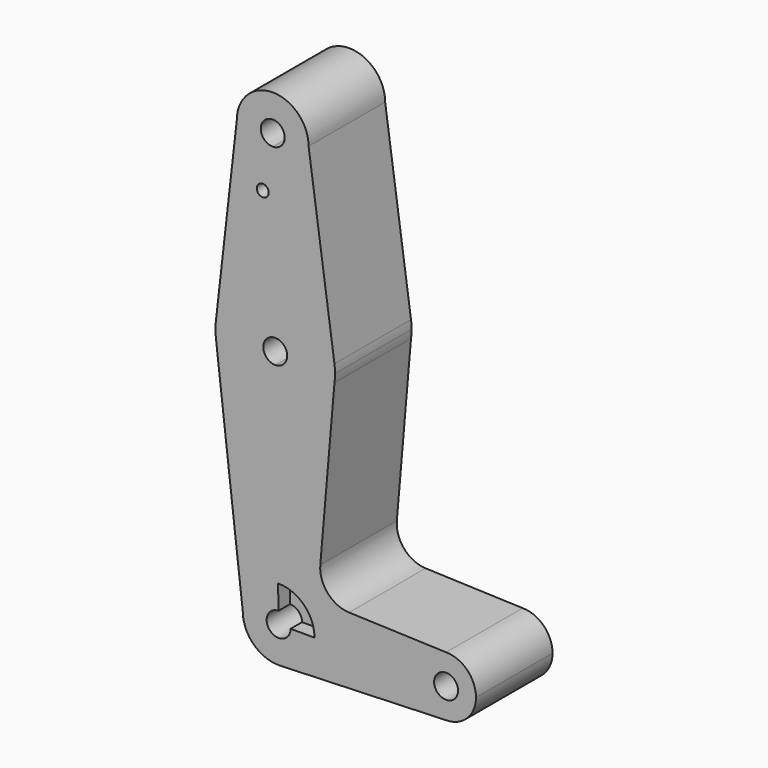
from build123d import *

# Parameters (mm, degrees)
F0_R     = 1.5875
F1_DEPTH = 25.4
F2_DEPTH = 21.59


with BuildPart() as f1:
    # F0 (on Front) → F1 (new body)
    with BuildSketch(Plane.XZ):
        with BuildLine():
            ThreePointArc((-45.8923771413, 104.7758257242), (-39.2384052999, 107.6092963617), (-36.4927939024, 114.3))
            ThreePointArc((-36.4927939024, 114.3), (-46.0177939024, 123.825), (-55.5427939024, 114.3))
            ThreePointArc((-55.5427939024, 114.3), (-52.7084975407, 107.5206113974), (-45.8923771413, 104.7758257242))
        make_face()
        with BuildLine():
            ThreePointArc((-42.8427939024, 114.3), (-43.7579977016, 112.0697654539), (-45.9759883154, 111.1252752414))
            ThreePointArc((-45.9759883154, 111.1252752414), (-48.2775901033, 116.5302345461), (-42.8427939024, 114.3))
        make_face(mode=Mode.SUBTRACT)
        with BuildLine():
            Line((-29.6299272337, 65.7206308807), (-36.4927939024, 114.3))
            ThreePointArc((-36.4927939024, 114.3), (-39.2384052999, 107.6092963617), (-45.8923771413, 104.7758257242))
            Line((-45.8923771413, 104.7758257242), (-45.5578744539, 79.373623793))
            ThreePointArc((-45.5578744539, 79.373623793), (-35.0173298688, 75.5530240484), (-29.6299272337, 65.7206308807))
        make_face()
        with BuildLine():
            ThreePointArc((-45.8923771413, 104.7758257242), (-52.7084975407, 107.5206113974), (-55.5427939024, 114.3))
            Line((-55.5427939024, 114.3), (-61.1219506134, 65.2957762162))
            ThreePointArc((-61.1219506134, 65.2957762162), (-55.9979584138, 75.2733614931), (-45.5578744539, 79.373623793))
            Line((-45.5578744539, 79.373623793), (-45.8923771413, 104.7758257242))
        make_face()
        with Locations((-48.6637000366, 100.0252)):
            Circle(F0_R, mode=Mode.SUBTRACT)
        with BuildLine():
            ThreePointArc((-29.4738465188, 63.5), (-29.5129147708, 64.6130546592), (-29.6299272337, 65.7206308807))
            ThreePointArc((-29.6299272337, 65.7206308807), (-35.0173298688, 75.5530240484), (-45.5578744539, 79.373623793))
            Line((-45.5578744539, 79.373623793), (-45.3906521058, 66.6747247586))
            ThreePointArc((-45.3906521058, 66.6747247586), (-43.1186119727, 65.7597962009), (-42.1738465188, 63.5))
            ThreePointArc((-42.1738465188, 63.5), (-43.087950392, 61.2708805092), (-45.3039086946, 60.3253180329))
            Line((-45.3039086946, 60.3253180329), (-45.124157398, 47.6265901647))
            ThreePointArc((-45.124157398, 47.6265901647), (-34.8536449701, 51.5892330451), (-29.6299272337, 61.2793691193))
            ThreePointArc((-29.6299272337, 61.2793691193), (-29.5129147708, 62.3869453408), (-29.4738465188, 63.5))
        make_face()
        with BuildLine():
            ThreePointArc((-45.5578744539, 79.373623793), (-55.9979584138, 75.2733614931), (-61.1219506134, 65.2957762162))
            ThreePointArc((-61.1219506134, 65.2957762162), (-61.2238389716, 63.4845202884), (-61.1184184978, 61.6734665075))
            ThreePointArc((-61.1184184978, 61.6734665075), (-55.8245101978, 51.5720456287), (-45.124157398, 47.6265901647))
            Line((-45.124157398, 47.6265901647), (-45.3039086946, 60.3253180329))
            ThreePointArc((-45.3039086946, 60.3253180329), (-48.5235502679, 63.4566282891), (-45.3906521058, 66.6747247586))
            Line((-45.3906521058, 66.6747247586), (-45.5578744539, 79.373623793))
        make_face()
        with BuildLine():
            ThreePointArc((-45.124157398, 47.6265901647), (-55.8245101978, 51.5720456287), (-61.1184184978, 61.6734665075))
            Line((-61.1184184978, 61.6734665075), (-53.975, 0))
            ThreePointArc((-53.975, 0), (-51.2326883802, 6.6873584723), (-44.5848134725, 9.5240459012))
            Line((-44.5848134725, 9.5240459012), (-45.124157398, 47.6265901647))
        make_face()
        with BuildLine():
            Line((-33.3890422301, 17.4858067619), (-29.6299272337, 61.2793691193))
            ThreePointArc((-29.6299272337, 61.2793691193), (-34.8536449701, 51.5892330451), (-45.124157398, 47.6265901647))
            Line((-45.124157398, 47.6265901647), (-44.5848134725, 9.5240459012))
            ThreePointArc((-44.5848134725, 9.5240459012), (-37.7626415277, 6.7826883802), (-34.925, 0))
            Line((-34.925, 0), (-7.9375, 0))
            ThreePointArc((-7.9375, 0), (-5.6126600757, 5.6126600757), (0, 7.9375))
            Line((0, 7.9375), (-25.7528172131, 8.8607889455))
            ThreePointArc((-25.7528172131, 8.8607889455), (-31.4204494391, 11.5358115277), (-33.3890422301, 17.4858067619))
        make_face()
        with BuildLine():
            ThreePointArc((-44.5848134725, 9.5240459012), (-51.2326883802, 6.6873584723), (-53.975, 0))
            ThreePointArc((-53.975, 0), (-51.0634341324, -6.8547876682), (-44.1087293489, -9.5188843539))
            ThreePointArc((-44.1087293489, -9.5188843539), (-37.5952123318, -6.6134341324), (-34.925, 0))
            Line((-34.925, 0), (-41.275, 0))
            ThreePointArc((-41.275, 0), (-46.6791194908, -2.2608961267), (-44.4949378242, 3.1746819671))
            Line((-44.4949378242, 3.1746819671), (-44.5848134725, 9.5240459012))
        make_face()
        with BuildLine():
            ThreePointArc((-34.925, 0), (-37.5952123318, -6.6134341324), (-44.1087293489, -9.5188843539))
            Line((-44.1087293489, -9.5188843539), (0, -7.9375))
            ThreePointArc((0, -7.9375), (-5.6126600757, -5.6126600757), (-7.9375, 0))
            Line((-7.9375, 0), (-34.925, 0))
        make_face()
        with BuildLine():
            ThreePointArc((-7.9375, 0), (-5.6126600757, -5.6126600757), (0, -7.9375))
            ThreePointArc((0, -7.9375), (5.6126600757, -5.6126600757), (7.9375, 0))
            ThreePointArc((7.9375, 0), (5.6126600757, 5.6126600757), (0, 7.9375))
            ThreePointArc((0, 7.9375), (-5.6126600757, 5.6126600757), (-7.9375, 0))
        make_face()
        with BuildLine():
            ThreePointArc((3.175, 0), (0, -3.175), (-3.175, 0))
            ThreePointArc((-3.175, 0), (0, 3.175), (3.175, 0))
        make_face(mode=Mode.SUBTRACT)
    extrude(amount=F1_DEPTH)

    # F0 (on Front) → F2 (join)
    with BuildSketch(Plane.XZ):
        with BuildLine():
            ThreePointArc((-45.8923771413, 104.7758257242), (-39.2384052999, 107.6092963617), (-36.4927939024, 114.3))
            ThreePointArc((-36.4927939024, 114.3), (-46.0177939024, 123.825), (-55.5427939024, 114.3))
            ThreePointArc((-55.5427939024, 114.3), (-52.7084975407, 107.5206113974), (-45.8923771413, 104.7758257242))
        make_face()
        with BuildLine():
            ThreePointArc((-42.8427939024, 114.3), (-43.7579977016, 112.0697654539), (-45.9759883154, 111.1252752414))
            ThreePointArc((-45.9759883154, 111.1252752414), (-48.2775901033, 116.5302345461), (-42.8427939024, 114.3))
        make_face(mode=Mode.SUBTRACT)
        with BuildLine():
            Line((-29.6299272337, 65.7206308807), (-36.4927939024, 114.3))
            ThreePointArc((-36.4927939024, 114.3), (-39.2384052999, 107.6092963617), (-45.8923771413, 104.7758257242))
            Line((-45.8923771413, 104.7758257242), (-45.5578744539, 79.373623793))
            ThreePointArc((-45.5578744539, 79.373623793), (-35.0173298688, 75.5530240484), (-29.6299272337, 65.7206308807))
        make_face()
        with BuildLine():
            ThreePointArc((-45.8923771413, 104.7758257242), (-52.7084975407, 107.5206113974), (-55.5427939024, 114.3))
            Line((-55.5427939024, 114.3), (-61.1219506134, 65.2957762162))
            ThreePointArc((-61.1219506134, 65.2957762162), (-55.9979584138, 75.2733614931), (-45.5578744539, 79.373623793))
            Line((-45.5578744539, 79.373623793), (-45.8923771413, 104.7758257242))
        make_face()
        with Locations((-48.6637000366, 100.0252)):
            Circle(F0_R, mode=Mode.SUBTRACT)
        with BuildLine():
            ThreePointArc((-29.4738465188, 63.5), (-29.5129147708, 64.6130546592), (-29.6299272337, 65.7206308807))
            ThreePointArc((-29.6299272337, 65.7206308807), (-35.0173298688, 75.5530240484), (-45.5578744539, 79.373623793))
            Line((-45.5578744539, 79.373623793), (-45.3906521058, 66.6747247586))
            ThreePointArc((-45.3906521058, 66.6747247586), (-43.1186119727, 65.7597962009), (-42.1738465188, 63.5))
            ThreePointArc((-42.1738465188, 63.5), (-43.087950392, 61.2708805092), (-45.3039086946, 60.3253180329))
            Line((-45.3039086946, 60.3253180329), (-45.124157398, 47.6265901647))
            ThreePointArc((-45.124157398, 47.6265901647), (-34.8536449701, 51.5892330451), (-29.6299272337, 61.2793691193))
            ThreePointArc((-29.6299272337, 61.2793691193), (-29.5129147708, 62.3869453408), (-29.4738465188, 63.5))
        make_face()
        with BuildLine():
            ThreePointArc((-45.5578744539, 79.373623793), (-55.9979584138, 75.2733614931), (-61.1219506134, 65.2957762162))
            ThreePointArc((-61.1219506134, 65.2957762162), (-61.2238389716, 63.4845202884), (-61.1184184978, 61.6734665075))
            ThreePointArc((-61.1184184978, 61.6734665075), (-55.8245101978, 51.5720456287), (-45.124157398, 47.6265901647))
            Line((-45.124157398, 47.6265901647), (-45.3039086946, 60.3253180329))
            ThreePointArc((-45.3039086946, 60.3253180329), (-48.5235502679, 63.4566282891), (-45.3906521058, 66.6747247586))
            Line((-45.3906521058, 66.6747247586), (-45.5578744539, 79.373623793))
        make_face()
        with BuildLine():
            ThreePointArc((-45.124157398, 47.6265901647), (-55.8245101978, 51.5720456287), (-61.1184184978, 61.6734665075))
            Line((-61.1184184978, 61.6734665075), (-53.975, 0))
            ThreePointArc((-53.975, 0), (-51.2326883802, 6.6873584723), (-44.5848134725, 9.5240459012))
            Line((-44.5848134725, 9.5240459012), (-45.124157398, 47.6265901647))
        make_face()
        with BuildLine():
            Line((-33.3890422301, 17.4858067619), (-29.6299272337, 61.2793691193))
            ThreePointArc((-29.6299272337, 61.2793691193), (-34.8536449701, 51.5892330451), (-45.124157398, 47.6265901647))
            Line((-45.124157398, 47.6265901647), (-44.5848134725, 9.5240459012))
            ThreePointArc((-44.5848134725, 9.5240459012), (-37.7626415277, 6.7826883802), (-34.925, 0))
            Line((-34.925, 0), (-7.9375, 0))
            ThreePointArc((-7.9375, 0), (-5.6126600757, 5.6126600757), (0, 7.9375))
            Line((0, 7.9375), (-25.7528172131, 8.8607889455))
            ThreePointArc((-25.7528172131, 8.8607889455), (-31.4204494391, 11.5358115277), (-33.3890422301, 17.4858067619))
        make_face()
        with BuildLine():
            ThreePointArc((-44.5848134725, 9.5240459012), (-51.2326883802, 6.6873584723), (-53.975, 0))
            ThreePointArc((-53.975, 0), (-51.0634341324, -6.8547876682), (-44.1087293489, -9.5188843539))
            ThreePointArc((-44.1087293489, -9.5188843539), (-37.5952123318, -6.6134341324), (-34.925, 0))
            Line((-34.925, 0), (-41.275, 0))
            ThreePointArc((-41.275, 0), (-46.6791194908, -2.2608961267), (-44.4949378242, 3.1746819671))
            Line((-44.4949378242, 3.1746819671), (-44.5848134725, 9.5240459012))
        make_face()
        with BuildLine():
            ThreePointArc((-34.925, 0), (-37.5952123318, -6.6134341324), (-44.1087293489, -9.5188843539))
            Line((-44.1087293489, -9.5188843539), (0, -7.9375))
            ThreePointArc((0, -7.9375), (-5.6126600757, -5.6126600757), (-7.9375, 0))
            Line((-7.9375, 0), (-34.925, 0))
        make_face()
        with BuildLine():
            ThreePointArc((-7.9375, 0), (-5.6126600757, -5.6126600757), (0, -7.9375))
            ThreePointArc((0, -7.9375), (5.6126600757, -5.6126600757), (7.9375, 0))
            ThreePointArc((7.9375, 0), (5.6126600757, 5.6126600757), (0, 7.9375))
            ThreePointArc((0, 7.9375), (-5.6126600757, 5.6126600757), (-7.9375, 0))
        make_face()
        with BuildLine():
            ThreePointArc((3.175, 0), (0, -3.175), (-3.175, 0))
            ThreePointArc((-3.175, 0), (0, 3.175), (3.175, 0))
        make_face(mode=Mode.SUBTRACT)
        with BuildLine():
            ThreePointArc((-34.925, 0), (-37.7626415277, 6.7826883802), (-44.5848134725, 9.5240459012))
            Line((-44.5848134725, 9.5240459012), (-44.4949378242, 3.1746819671))
            ThreePointArc((-44.4949378242, 3.1746819671), (-42.2208805092, 2.2608961267), (-41.275, 0))
            Line((-41.275, 0), (-34.925, 0))
        make_face()
    extrude(amount=F2_DEPTH)


solid = f1.part
